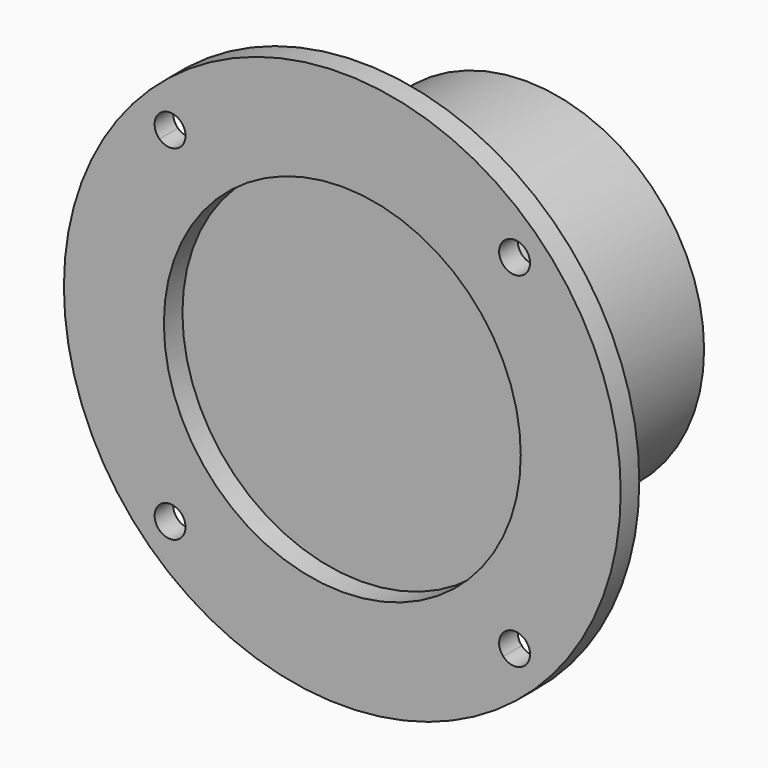
from build123d import *

# Parameters (mm, degrees)
F0_R     = 36
F0_R_2   = 23.075
F1_DEPTH = 3
F2_DEPTH = 26.63


with BuildPart() as f1:
    # F0 (on Front) → F1 (new body)
    with BuildSketch(Plane.XZ):
        Circle(F0_R)
        with BuildLine():
            ThreePointArc((23.642469, 20.815467), (29.47022, 11.124573), (31.5, 0))
            ThreePointArc((31.5, 0), (29.47022, -11.124573), (23.642469, -20.815467))
            ThreePointArc((23.642469, -20.815467), (24.10924, -21.47926), (24.273864, -22.273864))
            ThreePointArc((24.273864, -22.273864), (23.009801, -24.13354), (20.815467, -23.642469))
            ThreePointArc((20.815467, -23.642469), (0, -31.5), (-20.815467, -23.642469))
            ThreePointArc((-20.815467, -23.642469), (-23.688077, -23.688077), (-23.642469, -20.815467))
            ThreePointArc((-23.642469, -20.815467), (-31.5, 0), (-23.642469, 20.815467))
            ThreePointArc((-23.642469, 20.815467), (-23.688077, 23.688077), (-20.815467, 23.642469))
            ThreePointArc((-20.815467, 23.642469), (0, 31.5), (20.815467, 23.642469))
            ThreePointArc((20.815467, 23.642469), (23.009801, 24.13354), (24.273864, 22.273864))
            ThreePointArc((24.273864, 22.273864), (24.10924, 21.47926), (23.642469, 20.815467))
        make_face(mode=Mode.SUBTRACT)
        with BuildLine():
            ThreePointArc((23.642469, -20.815467), (29.47022, -11.124573), (31.5, 0))
            ThreePointArc((31.5, 0), (29.47022, 11.124573), (23.642469, 20.815467))
            ThreePointArc((23.642469, 20.815467), (20.85965, 20.85965), (20.815467, 23.642469))
            ThreePointArc((20.815467, 23.642469), (0, 31.5), (-20.815467, 23.642469))
            ThreePointArc((-20.815467, 23.642469), (-20.414187, 23.009801), (-20.273864, 22.273864))
            ThreePointArc((-20.273864, 22.273864), (-21.47926, 20.438488), (-23.642469, 20.815467))
            ThreePointArc((-23.642469, 20.815467), (-31.5, 0), (-23.642469, -20.815467))
            ThreePointArc((-23.642469, -20.815467), (-21.47926, -20.438488), (-20.273864, -22.273864))
            ThreePointArc((-20.273864, -22.273864), (-20.414187, -23.009801), (-20.815467, -23.642469))
            ThreePointArc((-20.815467, -23.642469), (0, -31.5), (20.815467, -23.642469))
            ThreePointArc((20.815467, -23.642469), (20.85965, -20.85965), (23.642469, -20.815467))
        make_face()
        Circle(F0_R_2, mode=Mode.SUBTRACT)
    extrude(amount=F1_DEPTH)


with BuildPart() as f2:
    # F0 (on Front) → F2 (new body)
    with BuildSketch(Plane.XZ):
        Circle(F0_R_2)
    extrude(amount=-F2_DEPTH)


solid = Compound([f1.part, f2.part])
